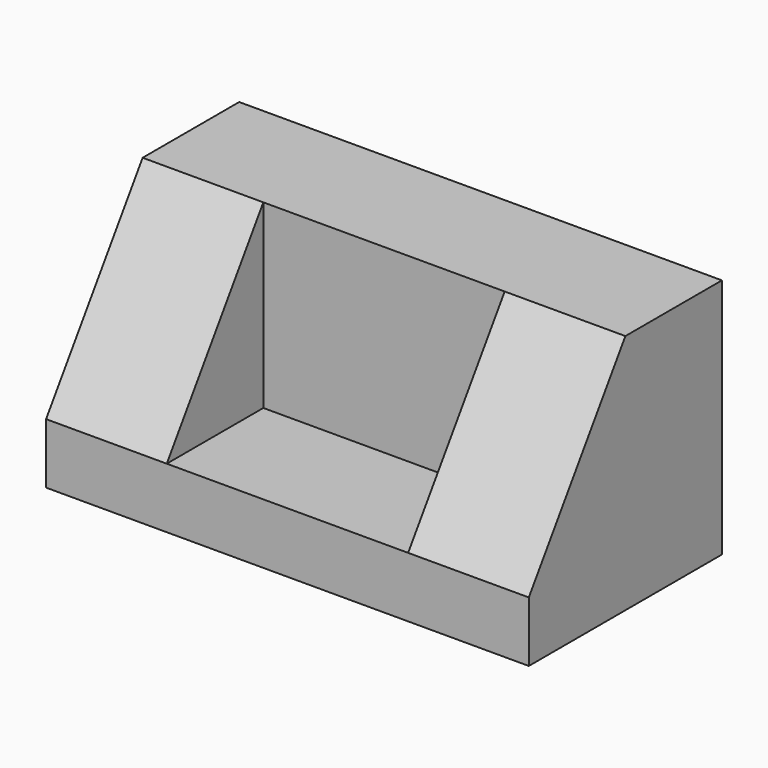
from build123d import *

# Parameters (mm, degrees)
F0_W     = 203.2
F0_H     = 101.6
F1_DEPTH = 101.6
F2_W     = 101.6
F2_H     = 76.2
F3_DEPTH = 50.8
F5_DEPTH = 50.8
F7_DEPTH = 50.8


with BuildPart() as f1:
    # F0 (on Front) → F1 (new body)
    with BuildSketch(Plane.XZ):
        Rectangle(F0_W, F0_H)
    extrude(amount=F1_DEPTH)

    # F2 (on face) → F3 (cut)
    with BuildSketch(Plane.XZ.offset(101.6)):
        with Locations((0, 12.7)):
            Rectangle(F2_W, F2_H)
    extrude(amount=-F3_DEPTH, mode=Mode.SUBTRACT)

    # F4 (on face) → F5 (cut)
    with BuildSketch(Plane.YZ.offset(-50.8)):
        Polygon((-101.6, -25.4), (-50.8, 50.8), (-101.6, 50.8), align=None)
    extrude(amount=-F5_DEPTH, mode=Mode.SUBTRACT)

    # F6 (on face) → F7 (cut)
    with BuildSketch(Plane(origin=(50.8, 0, 0), x_dir=(0, -1, 0), z_dir=(-1, 0, 0))):
        Polygon((101.6, 50.8), (50.8, 50.8), (101.6, -25.4), align=None)
    extrude(amount=-F7_DEPTH, mode=Mode.SUBTRACT)


solid = f1.part
